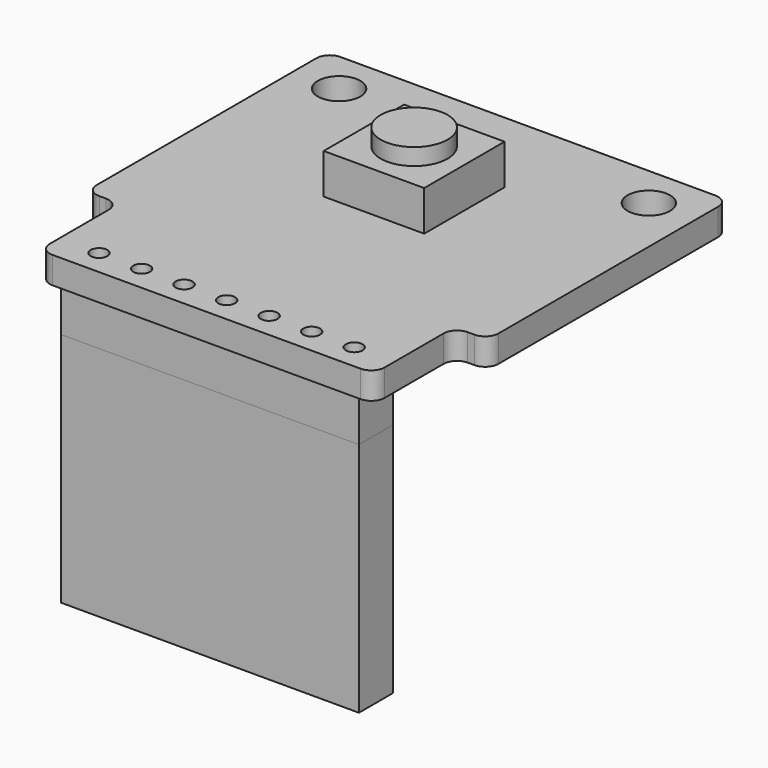
from build123d import *

# Parameters (mm, degrees)
PAD_DEPTH               = 1.6
SKETCH001_R             = 1.27
POCKET_DEPTH            = 1.601
SKETCH002_R             = 0.5
POCKET001_DEPTH         = 1.601
LINEARPATTERN_COUNT     = 4
LINEARPATTERN_PITCH     = 2.54
LINEARPATTERN001_COUNT  = 4
LINEARPATTERN001_PITCH  = 2.54
SKETCH014_W             = 17.78
SKETCH014_H             = 2.54
PAD007_DEPTH            = 2.54
SKETCH016_W             = 15.84
SKETCH016_H             = 0.6
PAD008_DEPTH            = 8.74
SKETCH017_W             = 1.94
SKETCH017_H             = 12.4
POCKET005_DEPTH         = 0.001
POCKET005_DEPTH_BACK    = 12.366
LINEARPATTERN002_COUNT  = 2
LINEARPATTERN002_PITCH  = 7.62
LINEARPATTERN006_COUNT  = 2
LINEARPATTERN006_PITCH  = 7.62
BODY013_PLACEMENT_ANGLE = 180
SKETCH018_W             = 17.78
SKETCH018_H             = 2.54
PAD009_DEPTH            = 14.1
SKETCH019_W             = 6
SKETCH019_H             = 6
PAD010_DEPTH            = 2.4
SKETCH020_R             = 2
PAD011_DEPTH            = 3.4


with BuildPart() as plate:
    # Sketch → Pad (new body)
    with BuildSketch(Plane.XY):
        with BuildLine():
            Line((-11.2, 12), (11.2, 12))
            ThreePointArc((12, 11.2), (11.765685, 11.765685), (11.2, 12))
            Line((12, -5.2), (12, 11.2))
            ThreePointArc((11.2, -6), (11.765685, -5.765685), (12, -5.2))
            Line((10.8, -6), (11.2, -6))
            ThreePointArc((10.8, -6), (10.234315, -6.234315), (10, -6.8))
            Line((10, -11.2), (10, -6.8))
            ThreePointArc((9.2, -12), (9.765685, -11.765685), (10, -11.2))
            Line((-9.2, -12), (9.2, -12))
            ThreePointArc((-10, -11.2), (-9.765685, -11.765685), (-9.2, -12))
            Line((-10, -6.8), (-10, -11.2))
            ThreePointArc((-10, -6.8), (-10.234315, -6.234315), (-10.8, -6))
            Line((-11.2, -6), (-10.8, -6))
            ThreePointArc((-12, -5.2), (-11.765685, -5.765685), (-11.2, -6))
            Line((-12, 11.2), (-12, -5.2))
            ThreePointArc((-11.2, 12), (-11.765685, 11.765685), (-12, 11.2))
        make_face()
    extrude(amount=-PAD_DEPTH)

    # Sketch001 → Pocket (cut, through all)
    with BuildSketch(Plane.XY):
        with Locations((-9.25, 9.46)):
            Circle(SKETCH001_R)
        with Locations((9.25, 9.46)):
            Circle(SKETCH001_R)
    extrude(amount=-POCKET_DEPTH, mode=Mode.SUBTRACT)

    # Sketch002 → Pocket001 (cut, through all)
    with BuildSketch(Plane.XY):
        with Locations((0, -10.5)):
            Circle(SKETCH002_R)
    pocket001 = extrude(amount=-POCKET001_DEPTH, mode=Mode.SUBTRACT)

    # LinearPattern: Pocket001 ×4
    with Locations(*[(i * LINEARPATTERN_PITCH, 0, 0) for i in range(1, LINEARPATTERN_COUNT)]):
        add(pocket001, mode=Mode.SUBTRACT)

    # LinearPattern001: Pocket001 ×4
    with Locations(*[(-i * LINEARPATTERN001_PITCH, 0, 0) for i in range(1, LINEARPATTERN001_COUNT)]):
        add(pocket001, mode=Mode.SUBTRACT)


with BuildPart() as pinblock:
    # Sketch014 → Pad007 (new body)
    with BuildSketch(Plane.XY):
        with Locations((0, -12.065)):
            Rectangle(SKETCH014_W, SKETCH014_H)
    extrude(amount=PAD007_DEPTH)


with BuildPart() as pinblock_1:
    # Body012 placement: moved
    add(pinblock.part.moved(Location((0, 1.6, -4.2))))


with BuildPart() as pins:
    # Sketch016 → Pad008 (new body)
    with BuildSketch(Plane.XY):
        with Locations((0, -12.065)):
            Rectangle(SKETCH016_W, SKETCH016_H)
    extrude(amount=PAD008_DEPTH)

    # Sketch017 → Pocket005 (cut, two sides)
    with BuildSketch(Plane.XZ) as pocket005_sk:
        with Locations((-1.27, 8.44)):
            Rectangle(SKETCH017_W, SKETCH017_H)
        with Locations((1.27, 8.44)):
            Rectangle(SKETCH017_W, SKETCH017_H)
        with Locations((3.81, 8.44)):
            Rectangle(SKETCH017_W, SKETCH017_H)
        with Locations((-3.81, 8.44)):
            Rectangle(SKETCH017_W, SKETCH017_H)
    pocket005 = extrude(amount=-POCKET005_DEPTH, mode=Mode.SUBTRACT) + extrude(pocket005_sk.sketch, amount=POCKET005_DEPTH_BACK, mode=Mode.SUBTRACT)

    # LinearPattern002: Pocket005 ×2
    with Locations(*[(i * LINEARPATTERN002_PITCH, 0, 0) for i in range(1, LINEARPATTERN002_COUNT)]):
        add(pocket005, mode=Mode.SUBTRACT)

    # LinearPattern006: Pocket005 ×2
    with Locations(*[(-i * LINEARPATTERN006_PITCH, 0, 0) for i in range(1, LINEARPATTERN006_COUNT)]):
        add(pocket005, mode=Mode.SUBTRACT)


with BuildPart() as pins_1:
    # Body013 placement: moved
    add(pins.part.moved(Location((0, -22.5, -1.6))).rotate(Axis((0, -22.5, -1.6), (1, 0, 0)), BODY013_PLACEMENT_ANGLE))


with BuildPart() as jumperheader:
    # Sketch018 → Pad009 (new body)
    with BuildSketch(Plane.XY):
        with Locations((0, -12.065)):
            Rectangle(SKETCH018_W, SKETCH018_H)
    extrude(amount=-PAD009_DEPTH)


with BuildPart() as jumperheader_1:
    # Body014 placement: moved
    add(jumperheader.part.moved(Location((0, 1.6, -4.2))))


with BuildPart() as obj1:
    # Sketch019 → Pad010 (new body)
    with BuildSketch(Plane.XY):
        with Locations((0, 3.5)):
            Rectangle(SKETCH019_W, SKETCH019_H)
    extrude(amount=PAD010_DEPTH)

    # Sketch020 → Pad011 (join)
    with BuildSketch(Plane.XY):
        with Locations((0, 3.5)):
            Circle(SKETCH020_R)
    extrude(amount=PAD011_DEPTH)


solid = Compound([plate.part, pinblock_1.part, pins_1.part, jumperheader_1.part, obj1.part])
